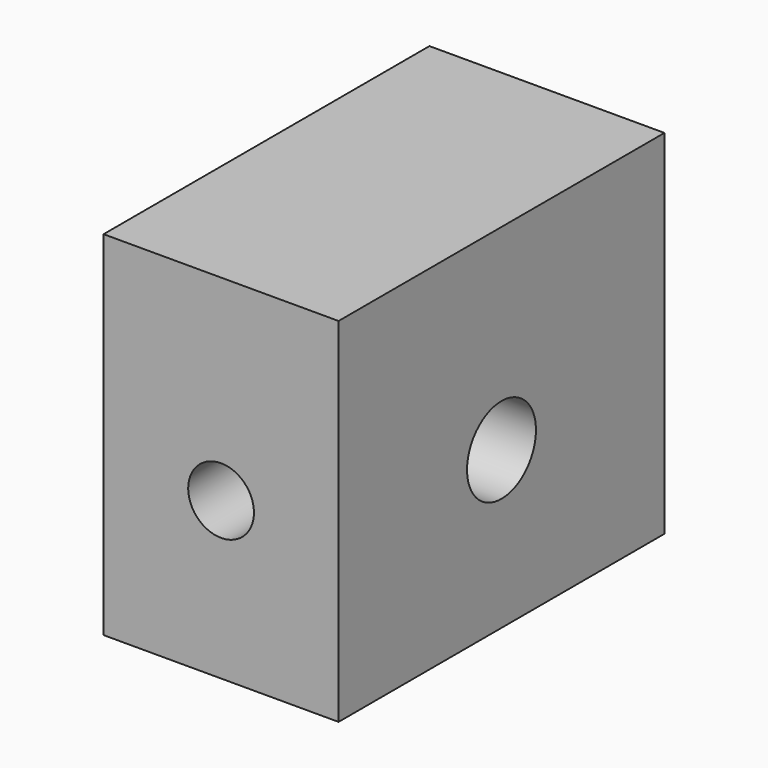
from build123d import *

# Parameters (mm, degrees)
F0_W     = 15
F0_H     = 26
F1_DEPTH = 22.5298
F3_D     = 4.2
F5_D     = 5.5


with BuildPart() as f1:
    # F0 (on Top) → F1 (new body)
    with BuildSketch(Plane.XY):
        with Locations((7.5, 13)):
            Rectangle(F0_W, F0_H)
    extrude(amount=F1_DEPTH)

    # F3 (through all)
    with Locations(Plane.XZ):
        with Locations((7.5, 10)):
            Hole(F3_D / 2)

    # F5 (through all)
    with Locations(Plane.YZ.offset(15)):
        with Locations((13, 10)):
            Hole(F5_D / 2)


solid = f1.part
